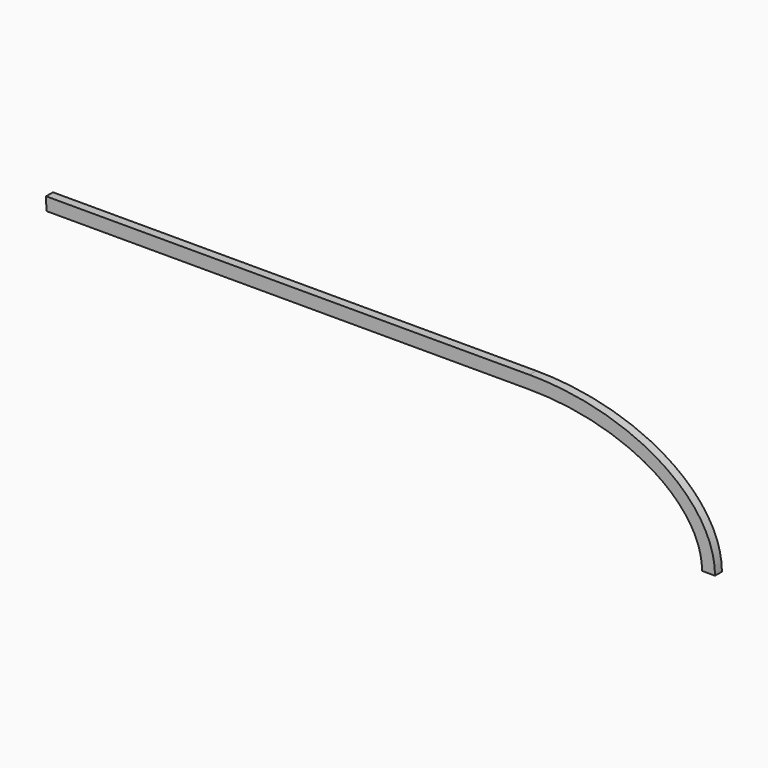
from build123d import *

# Parameters (mm, degrees)
F1_DEPTH = 3.175


with BuildPart() as f1:
    # F0 (on Front) → F1 (new body)
    with BuildSketch(Plane.XZ):
        with BuildLine():
            Line((122.3122592662, 33.7521504266), (-55.4877407338, 33.7521504266))
            Line((-55.4877407338, 33.7521504266), (-55.3766458406, 28.9909463589))
            Line((-55.3766458406, 28.9909463589), (122.3122592662, 28.9909463589))
            add(Edge.make_bspline(
                [(185.8122592662, -9.1090536411), (185.8122592662, 28.9909463589), (122.3122592662, 28.9909463589)],
                knots=[0, 0, 0, 1.5707963268, 1.5707963268, 1.5707963268], degree=2, weights=[1, 0.7071067812, 1]))
            Line((185.8122592662, -9.1090536411), (190.5747592662, -9.1090536411))
            add(Edge.make_bspline(
                [(190.5747592662, -9.1090536411), (190.5747592662, 33.7534463589), (122.3122592662, 33.7534463589)],
                knots=[0, 0, 0, 1.5707963268, 1.5707963268, 1.5707963268], degree=2, weights=[1, 0.7071067812, 1]))
            Line((122.3122592662, 33.7534463589), (122.3122592662, 33.7521504266))
        make_face()
    extrude(amount=F1_DEPTH)


solid = f1.part
